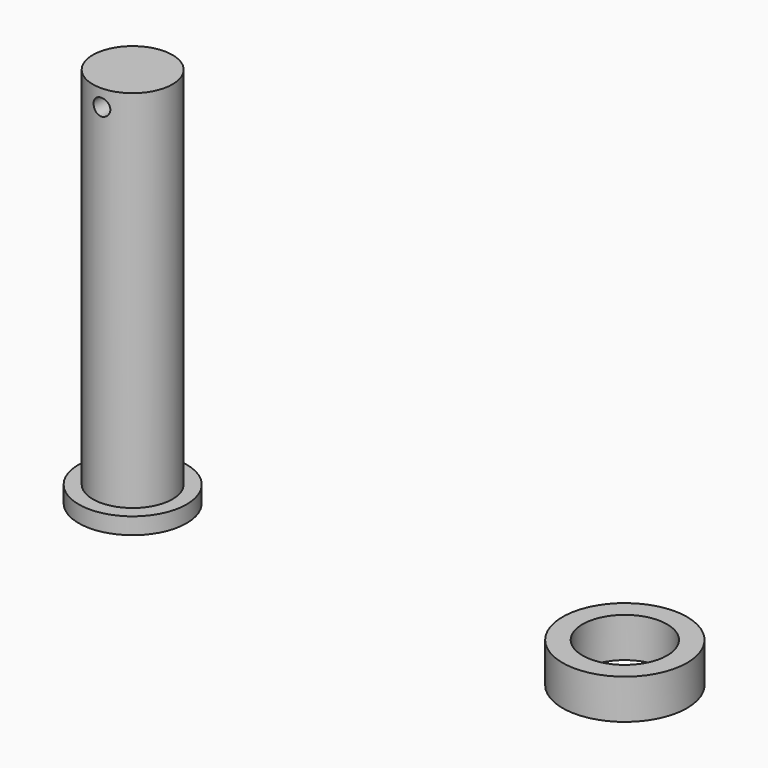
from build123d import *

# Parameters (mm, degrees)
F0_R     = 7.5
F0_R_2   = 5.1
F1_DEPTH = 4.8
F2_R     = 6.5
F3_DEPTH = 2
F4_R     = 4.8
F5_DEPTH = 44
F7_R     = 1
F8_DEPTH = 63


with BuildPart() as f1:
    # F0 (on Top) → F1 (new body)
    with BuildSketch(Plane.XY):
        with Locations((26.683733, 0)):
            Circle(F0_R)
        with Locations((26.683733, 0)):
            Circle(F0_R_2, mode=Mode.SUBTRACT)
    extrude(amount=F1_DEPTH)


with BuildPart() as f3:
    # F2 (on Top) → F3 (new body)
    with BuildSketch(Plane.XY):
        with Locations((-32.611998, 0)):
            Circle(F2_R)
    extrude(amount=F3_DEPTH)

    # F4 (on face) → F5 (join)
    with BuildSketch(Plane.XY.offset(2)):
        with Locations((-32.611998, 0)):
            Circle(F4_R)
    extrude(amount=F5_DEPTH)

    # F7 (on offset) → F8 (cut)
    with BuildSketch(Plane.XZ.offset(10)):
        with Locations((-32.557048, 44)):
            Circle(F7_R)
    extrude(amount=-F8_DEPTH, mode=Mode.SUBTRACT)


solid = Compound([f1.part, f3.part])
